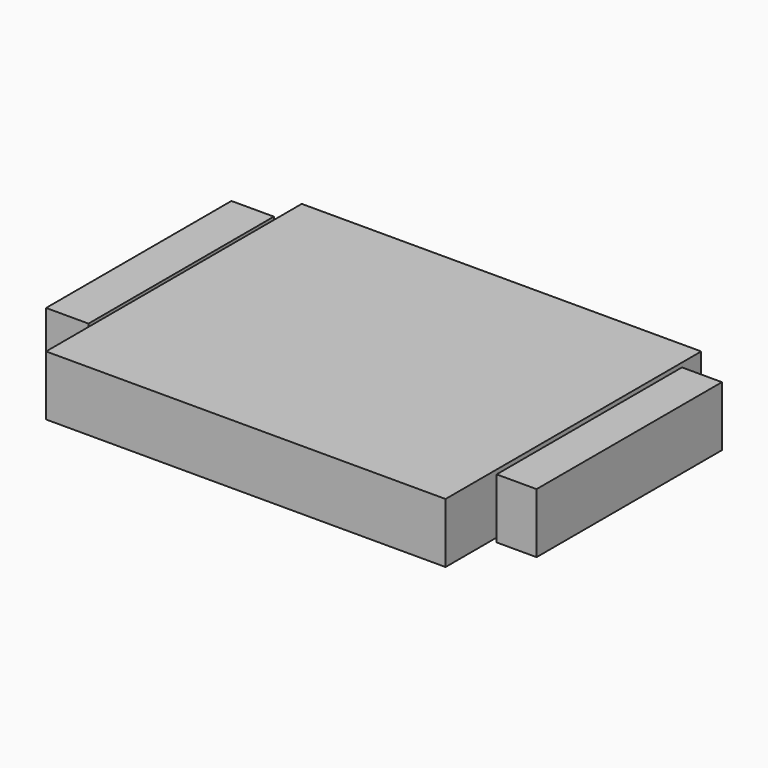
from build123d import *

# Parameters (mm, degrees)
F0_W     = 50
F0_H     = 40
F1_DEPTH = 7.5
F2_W     = 5.306279
F2_H     = 29.000013
F2_W_2   = 5
F3_DEPTH = 7.5


with BuildPart() as f1:
    # F0 (on Top) → F1 (new body)
    with BuildSketch(Plane.XY):
        Rectangle(F0_W, F0_H)
    extrude(amount=F1_DEPTH)


with BuildPart() as f3:
    # F2 (on Top) → F3 (new body)
    with BuildSketch(Plane.XY):
        with Locations((-28.099159, 1.688362)):
            Rectangle(F2_W, F2_H)
        with Locations((28.142624, 1.688362)):
            Rectangle(F2_W_2, F2_H)
    extrude(amount=F3_DEPTH)


solid = Compound([f1.part, f3.part])
